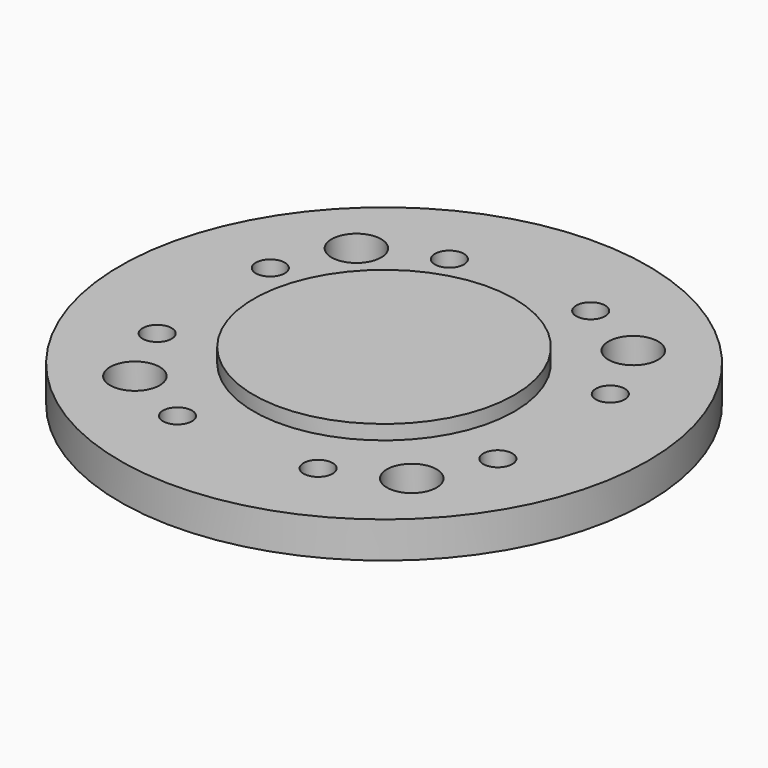
from build123d import *

# Parameters (mm, degrees)
F0_R     = 72.8
F0_R_2   = 6.85
F0_R_3   = 4
F0_R_4   = 35.95
F1_DEPTH = 10
F2_DEPTH = 4


with BuildPart() as f1:
    # F0 (on Top) → F1 (new body)
    with BuildSketch(Plane.XY):
        Circle(F0_R)
        with Locations((-38.183766, -38.183766)):
            Circle(F0_R_2, mode=Mode.SUBTRACT)
        with Locations((-19.440318, -46.93308)):
            Circle(F0_R_3, mode=Mode.SUBTRACT)
        with Locations((-46.881264, -19.621801)):
            Circle(F0_R_3, mode=Mode.SUBTRACT)
        Circle(F0_R_4, mode=Mode.SUBTRACT)
        with Locations((19.492135, -47.114563)):
            Circle(F0_R_3, mode=Mode.SUBTRACT)
        with Locations((38.183766, -38.183766)):
            Circle(F0_R_2, mode=Mode.SUBTRACT)
        with Locations((46.93308, -19.440318)):
            Circle(F0_R_3, mode=Mode.SUBTRACT)
        with Locations((-46.93308, 19.440318)):
            Circle(F0_R_3, mode=Mode.SUBTRACT)
        with Locations((-38.183766, 38.183766)):
            Circle(F0_R_2, mode=Mode.SUBTRACT)
        with Locations((-19.388502, 46.751597)):
            Circle(F0_R_3, mode=Mode.SUBTRACT)
        with Locations((46.984896, 19.258835)):
            Circle(F0_R_3, mode=Mode.SUBTRACT)
        with Locations((19.440318, 46.93308)):
            Circle(F0_R_3, mode=Mode.SUBTRACT)
        with Locations((38.183766, 38.183766)):
            Circle(F0_R_2, mode=Mode.SUBTRACT)
        Circle(F0_R_4)
    extrude(amount=-F1_DEPTH)

    # F0 (on Top) → F2 (join)
    with BuildSketch(Plane.XY):
        Circle(F0_R_4)
    extrude(amount=F2_DEPTH)


solid = f1.part
